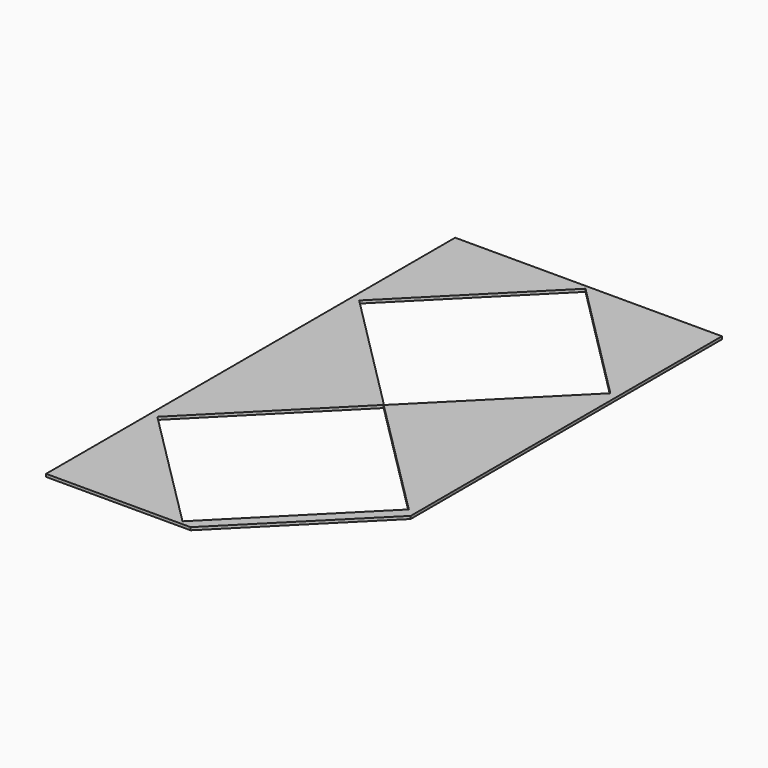
from build123d import *

# Parameters (mm, degrees)
F1_DEPTH = 3.175
F3_DEPTH = 25.4


with BuildPart() as f1:
    # F0 (on Top) → F1 (new body)
    with BuildSketch(Plane.XY):
        Polygon((152.4, -152.4), (152.4, 292.1), (-152.4, 292.1), (-152.4, -292.1), (12.7, -292.1), align=None)
    extrude(amount=F1_DEPTH)

    # F2 (on face) → F3 (cut)
    with BuildSketch(Plane.XY.offset(3.175)):
        Polygon((143.492395, 143.900945), (0, 287.77649), (0, 0.0254), align=None)
        Polygon((143.300438, -143.709498), (0, -0.40906), (0, -287.776234), align=None)
        Polygon((0, -287.776234), (0, -0.40906), (-0.38366, -0.0254), (-143.684098, -144.092136), align=None)
        Polygon((0, 0.0254), (0, 287.77649), (-143.492395, 143.900945), align=None)
    extrude(amount=-F3_DEPTH, mode=Mode.SUBTRACT)


solid = f1.part
